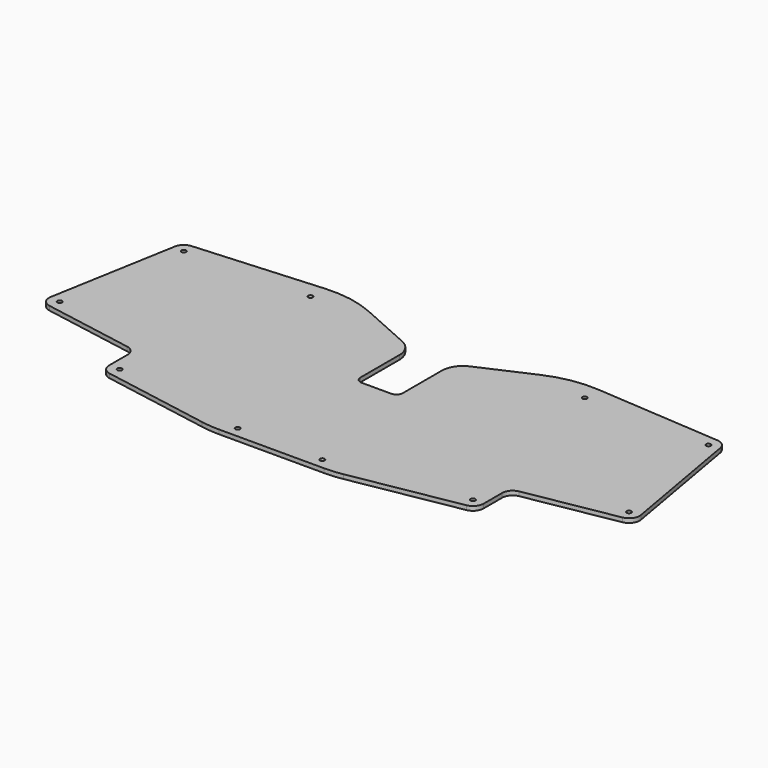
from build123d import *

# Parameters (mm, degrees)
SKETCH_R  = 1.1
PAD_DEPTH = 2


with BuildPart() as part:
    # Sketch → Pad (new body)
    with BuildSketch(Plane.XY):
        with BuildLine():
            ThreePointArc((-124.238101, 46.063372), (-127.232991, 44.790439), (-128.810202, 41.944014))
            Line((-128.810202, 41.944014), (-139.403415, -18.133082))
            ThreePointArc((-139.403415, -18.133082), (-138.575137, -21.869205), (-135.347617, -23.925361))
            Line((-135.347617, -23.925361), (-92.569259, -31.46834))
            ThreePointArc((-88.4375, -36.392379), (-89.607278, -33.178441), (-92.569259, -31.46834))
            Line((-88.4375, -36.392379), (-88.4375, -47.34526))
            ThreePointArc((-88.4375, -47.34526), (-87.267722, -50.559198), (-84.305741, -52.269298))
            Line((-84.305741, -52.269298), (-33.428165, -61.240388))
            ThreePointArc((-33.428165, -61.240388), (-29.103544, -61.809735), (-24.745757, -62))
            Line((-24.745757, -62), (24.745757, -62))
            ThreePointArc((24.745757, -62), (29.103544, -61.809735), (33.428165, -61.240388))
            Line((84.305741, -52.269298), (33.428165, -61.240388))
            ThreePointArc((84.305741, -52.269298), (87.267722, -50.559198), (88.4375, -47.34526))
            Line((88.4375, -36.392379), (88.4375, -47.34526))
            ThreePointArc((92.569259, -31.46834), (89.607278, -33.178441), (88.4375, -36.392379))
            Line((135.347617, -23.925361), (92.569259, -31.46834))
            ThreePointArc((135.347617, -23.925361), (138.575137, -21.869205), (139.403415, -18.133082))
            Line((128.810202, 41.944014), (139.403415, -18.133082))
            ThreePointArc((128.810202, 41.944014), (127.232991, 44.790439), (124.238101, 46.063372))
            Line((124.238101, 46.063372), (64.358799, 50.288605))
            ThreePointArc((64.358799, 50.288605), (52.157015, 49.653007), (40.473702, 46.077018))
            Line((40.473702, 46.077018), (15.926856, 35.129447))
            ThreePointArc((15.926856, 35.129447), (11.611572, 31.440305), (10, 25.996567))
            Line((10, 3), (10, 25.996567))
            ThreePointArc((7, 0), (9.12132, 0.87868), (10, 3))
            Line((-7, 0), (7, 0))
            ThreePointArc((-10, 3), (-9.12132, 0.87868), (-7, 0))
            Line((-10, 3), (-10, 25.996567))
            ThreePointArc((-10, 25.996567), (-11.611572, 31.440305), (-15.926856, 35.129447))
            Line((-40.473702, 46.077018), (-15.926856, 35.129447))
            ThreePointArc((-40.473702, 46.077018), (-52.157015, 49.653007), (-64.358799, 50.288605))
            Line((-124.238101, 46.063372), (-64.358799, 50.288605))
        make_face()
        with Locations((123.886163, 41.075773)):
            Circle(SKETCH_R, mode=Mode.SUBTRACT)
        with Locations((134.479376, -19.001323)):
            Circle(SKETCH_R, mode=Mode.SUBTRACT)
        with Locations((83.4375, -47.34526)):
            Circle(SKETCH_R, mode=Mode.SUBTRACT)
        with Locations((20, -57)):
            Circle(SKETCH_R, mode=Mode.SUBTRACT)
        with Locations((-20, -57)):
            Circle(SKETCH_R, mode=Mode.SUBTRACT)
        with Locations((-83.4375, -47.34526)):
            Circle(SKETCH_R, mode=Mode.SUBTRACT)
        with Locations((-134.479376, -19.001323)):
            Circle(SKETCH_R, mode=Mode.SUBTRACT)
        with Locations((-64.77, 41.995)):
            Circle(SKETCH_R, mode=Mode.SUBTRACT)
        with Locations((-123.886163, 41.075773)):
            Circle(SKETCH_R, mode=Mode.SUBTRACT)
        with Locations((64.77, 41.995)):
            Circle(SKETCH_R, mode=Mode.SUBTRACT)
    extrude(amount=PAD_DEPTH)


solid = part.part
